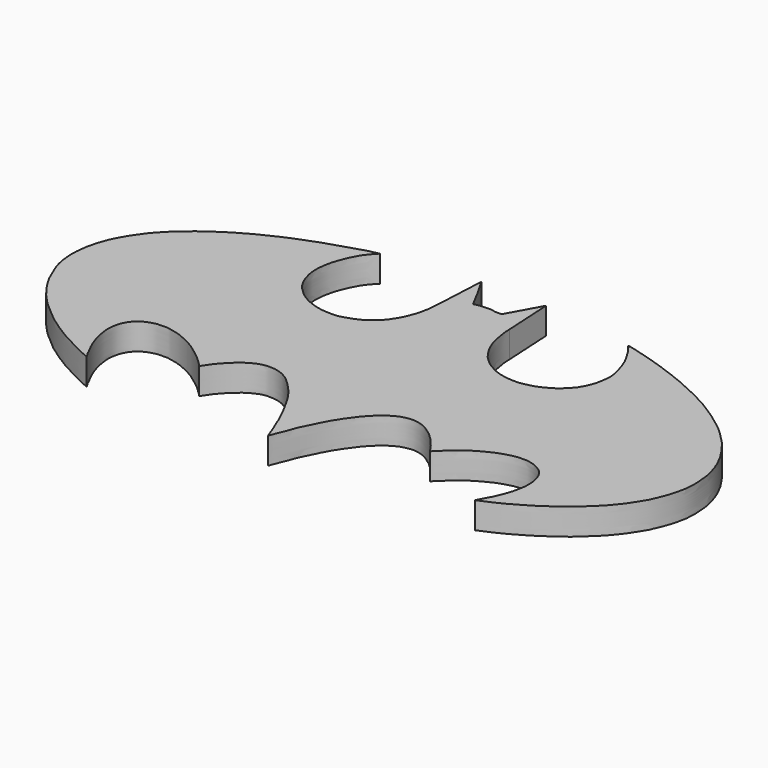
from build123d import *

# Parameters (mm, degrees)
F1_DEPTH = 3


with BuildPart() as f1:
    # F0 (on Top) → F1 (new body)
    with BuildSketch(Plane.XY):
        with BuildLine():
            add(Edge.make_bspline(
                [(43.8883714378, 42.9493300617), (43.9906443159, 41.052673012), (44.092917194, 39.2764210701), (44.1951900721, 37.3797640204)],
                knots=[0, 0, 0, 0, 5.5780107173, 5.5780107173, 5.5780107173, 5.5780107173], degree=3))
            add(Edge.make_bspline(
                [(43.8883714378, 42.9493300617), (43.2002531985, 41.6907196244), (42.5121349593, 40.4587189356), (41.8240167201, 39.2001084983)],
                knots=[0, 0, 0, 0, 4.279979291, 4.279979291, 4.279979291, 4.279979291], degree=3))
            add(Edge.make_bspline(
                [(41.8240167201, 39.2001084983), (41.6219808549, 39.2414644218), (41.219757792, 39.1578973627), (40.4844251857, 39.3893782118), (39.8510408898, 39.3052640724), (39.1768856468, 39.2844379185), (38.9693013163, 39.2219637265), (38.8234741986, 39.2001084983)],
                knots=[0, 0, 0, 0, 0.2012680894, 0.4240712291, 0.6347687259, 0.8418919037, 1, 1, 1, 1], degree=3))
            add(Edge.make_bspline(
                [(38.8234741986, 39.2001084983), (38.783925275, 39.1813404858), (38.6983280381, 39.1515083611), (38.6587791145, 39.1327403486)],
                knots=[0, 0, 0, 0, 0.1779408282, 0.1779408282, 0.1779408282, 0.1779408282], degree=3))
            add(Edge.make_bspline(
                [(38.6587791145, 39.1327403486), (38.415542459, 39.5782879598), (37.9405391346, 40.4531459422), (37.3246581467, 41.7004731022), (36.8132761193, 42.5297306145), (36.5531370044, 42.9493300617)],
                knots=[0, 0, 0, 0, 0.3391767031, 0.6651912969, 1, 1, 1, 1], degree=3))
            add(Edge.make_bspline(
                [(36.5531370044, 42.9493300617), (36.5157394565, 42.0778851244), (36.4470149087, 40.4901186982), (36.3708928021, 38.7843929099), (36.2610260545, 37.3042128357), (36.2113684368, 36.3007111251), (36.1089030823, 35.6595724537), (35.9485364587, 34.7755253855), (35.5945704774, 33.898010927), (35.2430554052, 33.0505842757), (34.5588439117, 32.0589050047), (34.072720634, 31.5158906421), (33.0378438928, 30.7009151644), (32.0462421992, 30.2880764915), (30.7183373095, 29.8255712944), (29.5836673413, 29.8763445009), (28.531007634, 29.9418671609), (27.301408312, 30.3581459323), (26.6406297624, 30.6932961878), (25.8818399696, 31.1440376354), (25.4828386989, 31.5865174108), (24.9239524408, 32.0527033248), (24.5694031735, 32.5499753143), (24.258929161, 33.080263478), (23.9915784607, 33.6966360837), (23.8445300937, 34.2374369823), (23.7391017395, 34.6245917825), (23.6610765544, 35.1675519002), (23.6386673721, 35.6958944295), (23.6884056175, 36.3947872104), (23.7534935755, 36.8104455967), (23.836980733, 37.2626374751), (23.9625423535, 37.7566177379), (24.1062955065, 38.1807427981), (24.2855910199, 38.6020102101), (24.3925238182, 38.8788221147), (24.5219560511, 39.2304834987), (24.7777425583, 39.70478309), (25.0450145338, 40.2268029072), (25.4007139851, 40.6654086481), (25.692015637, 41.0659399162), (26.0351678426, 41.3699381998), (26.1756945401, 41.5440350771)],
                knots=[0, 0, 0, 0, 0.044985488, 0.0823549683, 0.1169752163, 0.1451505316, 0.1679256718, 0.1946951106, 0.222368083, 0.2500417341, 0.2807776651, 0.3055952463, 0.3375280514, 0.3677002743, 0.4010990328, 0.4312693894, 0.4607505031, 0.492810785, 0.5178334136, 0.5439938276, 0.5662206622, 0.5902419582, 0.6125107279, 0.6348054313, 0.6582904094, 0.6794629417, 0.6975065514, 0.7182454291, 0.7394214719, 0.7630984865, 0.7816942282, 0.8008260394, 0.8211714088, 0.8404848909, 0.8595825585, 0.8750357073, 0.8922149765, 0.9131923041, 0.9352087531, 0.9564141719, 0.9765382157, 1, 1, 1, 1], degree=3))
            add(Edge.make_bspline(
                [(26.1756945401, 41.5440350771), (25.8983027257, 41.4967951765), (25.2705020549, 41.3898805537), (23.9132653808, 40.9697538433), (22.6289114443, 40.5333009084), (21.5536767733, 40.24667695), (20.1734447029, 39.7227553757), (19.1373203159, 39.3217213441), (18.1331836778, 38.9537370832), (17.0272491879, 38.4447668274), (16.152990786, 38.0221129389), (15.2211851615, 37.568499969), (14.489848651, 37.1668208681), (13.6912656235, 36.712731622), (13.1479036859, 36.380590346), (12.4412089967, 35.9322132071), (11.7766390941, 35.4918253566), (11.2131078603, 35.0323656037), (10.8592762206, 34.811881399), (10.4249933276, 34.4365100483), (10.0353140607, 34.1216056027), (9.7212207171, 33.8589361638), (9.3292895274, 33.5211387202), (8.94611163, 33.1505297382), (8.5273221388, 32.7035441718), (8.1472187415, 32.312478089), (7.73354936, 31.8457982155), (7.3295550983, 31.2762611314), (6.9941413127, 30.7980043249), (6.6417089593, 30.2876612712), (6.3725101589, 29.8128911578), (6.1503391825, 29.415463556), (5.8850990876, 28.8919870322), (5.6821353637, 28.4257827948), (5.4916053734, 27.8726047614), (5.2612102231, 27.1404644135), (5.1040072915, 26.4587624802), (5.0339124626, 25.917446908), (4.9398926318, 25.1677257438), (4.9135186169, 24.4549339393), (4.9547956182, 23.7327661183), (5.0410267018, 22.9749035745), (5.1748528726, 22.3595392432), (5.3455865823, 21.786468664), (5.5440846332, 21.278460214), (5.819555678, 20.5966184893), (6.0333842403, 20.0955082696), (6.2311927347, 19.6280675447), (6.6188777628, 19.0315208304), (6.9961044151, 18.3401077244), (7.5012724697, 17.6730421385), (7.8852921951, 17.1208750827), (8.4784340608, 16.4956556727), (9.0299168114, 15.8606570409), (9.7987770079, 15.1816970956), (10.5167214683, 14.5416887522), (11.1450630913, 14.0044417629), (11.7816292194, 13.5420489578), (12.2972058595, 13.1567972883), (12.9395999765, 12.756871827), (13.3666755975, 12.4506263426), (13.9669631902, 12.0948180042), (14.5525176336, 11.7544036877), (15.2498209713, 11.376426326), (15.9150871796, 11.0591285568), (16.6351031452, 10.6625717111), (17.2834501167, 10.3443356708), (17.9154394992, 10.070536811), (18.2619038969, 9.9204368889)],
                knots=[0, 0, 0, 0, 0.0166778627, 0.0377136298, 0.0582384868, 0.0769014532, 0.0981695933, 0.1168012535, 0.1349566293, 0.1542983639, 0.1718118872, 0.1895336236, 0.2058255429, 0.2224771779, 0.2366212549, 0.2525621955, 0.2685816154, 0.2833706048, 0.2947609989, 0.3079855713, 0.3204895542, 0.331711462, 0.3442541351, 0.3572207986, 0.3709365698, 0.3839385277, 0.3978321112, 0.4125280103, 0.4260513604, 0.4398933281, 0.4528234359, 0.4647301871, 0.4781195761, 0.4906713973, 0.5040721476, 0.5196035839, 0.5342667641, 0.547267672, 0.5624589727, 0.5774038085, 0.5923818804, 0.607739926, 0.6217553514, 0.635175473, 0.6482777521, 0.6633445064, 0.6763466944, 0.6887362774, 0.7034823498, 0.7192887765, 0.7352777878, 0.749763984, 0.7659094727, 0.7821671261, 0.7999756785, 0.8173043602, 0.8333359031, 0.8487949833, 0.8630664086, 0.8781872241, 0.8910658113, 0.9055604988, 0.9201971667, 0.9357718155, 0.9510161712, 0.9667833851, 0.9817742363, 1, 1, 1, 1], degree=3))
            add(Edge.make_bspline(
                [(27.1582603455, 14.7378128022), (27.1463998856, 14.7558995485), (27.1206337399, 14.7951919325), (27.0566485492, 14.8574062624), (26.9300684368, 15.0087334318), (26.8197966788, 15.1117618593), (26.6428996868, 15.2787254333), (26.5170446157, 15.4121430826), (26.3781154301, 15.5394892422), (26.2283552818, 15.6911321572), (26.0825875511, 15.7940683982), (25.9229567172, 15.9585484278), (25.7838234525, 16.0604509538), (25.638363507, 16.200713401), (25.4798759227, 16.3178343005), (25.2842385884, 16.4615222926), (25.0978541118, 16.6232828875), (24.9456359537, 16.7314402994), (24.7822331031, 16.8536842433), (24.5992454578, 16.9815556434), (24.4102004571, 17.0970913321), (24.2224373066, 17.2463592866), (24.020233973, 17.3593061221), (23.8511287779, 17.4420984459), (23.7264065227, 17.5538523803), (23.521118086, 17.6334159459), (23.3893202243, 17.7334441269), (23.2342631402, 17.8000348709), (23.0216300442, 17.9158735968), (22.7226644473, 18.0406360618), (22.4452685708, 18.180143058), (22.2229004603, 18.2515744074), (22.0469981519, 18.3344849698), (21.7949579201, 18.4008262493), (21.5980249424, 18.4782407465), (21.3097799673, 18.5454087603), (21.0879685878, 18.5910621869), (20.831702311, 18.6507597854), (20.7012546244, 18.6796699608), (20.4358694465, 18.7197649152), (20.2207222411, 18.7524755458), (19.2491240741, 18.7407293083), (18.9788407156, 18.6531953088), (18.7404466518, 18.6159010531), (18.4554550056, 18.5075634222), (18.2899905663, 18.456407575), (18.0934965758, 18.3692504318), (17.9460066313, 18.2700553033), (17.8250397128, 18.2225868631), (17.6364002144, 18.0751198243), (17.5286771002, 18.016677704), (17.4026188342, 17.8682760709), (17.2928086296, 17.8017362613), (17.205720672, 17.6749281868), (17.1315833235, 17.6158424015), (17.0293676229, 17.4348741977), (16.9134602589, 17.3295283043), (16.8486791952, 17.1424907699), (16.7522597993, 17.0393565531), (16.6947967874, 16.8471842775), (16.5984902389, 16.6524867314), (16.559958644, 16.5039497896), (16.5304718477, 16.3343023672), (16.4807215647, 16.1837124115), (16.4428663394, 16.0074188894), (16.4247335854, 15.693083725), (16.358026751, 15.3842277328), (16.4095950157, 14.7923757019), (16.4803636743, 14.3206795839), (16.5180588664, 14.0560937854), (16.6057534882, 13.7463278545), (16.704399283, 13.2911809563), (16.8156117513, 12.9909747514), (16.9235381767, 12.6453502541), (17.0202626246, 12.3856469937), (17.1541000819, 12.0580079109), (17.2895295289, 11.7590403119), (17.435332148, 11.4594816407), (17.609124065, 11.1303622085), (17.7851787839, 10.8259934824), (17.8828840784, 10.5203537363), (18.0524626591, 10.3295280423), (18.1369537988, 10.1313185044), (18.2192567939, 9.9924135429), (18.2619038969, 9.9204368889)],
                knots=[0, 0, 0, 0, 0.0064735868, 0.0140633742, 0.0251733303, 0.0353288292, 0.0476884144, 0.0586494476, 0.0696160594, 0.0812319407, 0.0920506718, 0.1040481739, 0.1146718275, 0.1259087446, 0.1371913735, 0.1497265461, 0.1623241894, 0.1732535852, 0.1846335593, 0.1966116957, 0.2085536787, 0.2209830026, 0.2332158228, 0.2440920188, 0.2544255442, 0.266218455, 0.2765004363, 0.2867267434, 0.2991545957, 0.3137242793, 0.3279392559, 0.3400337555, 0.3512134259, 0.3639767538, 0.3758356318, 0.3894270972, 0.4018499244, 0.4145388225, 0.424074435, 0.4365099183, 0.4491564383, 0.4738615184, 0.4877580144, 0.4998898602, 0.513784871, 0.5244953598, 0.5361472217, 0.5467062813, 0.5559714525, 0.5681353445, 0.5773057349, 0.588176071, 0.5974630942, 0.6070582466, 0.6149843815, 0.6262694185, 0.636519421, 0.6474797234, 0.6569365068, 0.6681916633, 0.6800384271, 0.6899841676, 0.7004012787, 0.7104016457, 0.7211339345, 0.7351072724, 0.7495048969, 0.7690792052, 0.7867102142, 0.7995375562, 0.8138682262, 0.8311376659, 0.8457286318, 0.8607225643, 0.8741866786, 0.8891504658, 0.9037271244, 0.9183272802, 0.9338013245, 0.948914997, 0.963172921, 0.9757777875, 0.9874486297, 1, 1, 1, 1], degree=3))
            add(Edge.make_bspline(
                [(40.2357168496, 8.1444578245), (40.2083548695, 8.1940493834), (40.1488360036, 8.3019229121), (40.1002275748, 8.5502823509), (39.9965417094, 8.7627149594), (39.8615004058, 9.1573645475), (39.6903397127, 9.5628373036), (39.5485671255, 9.9443381133), (39.3806122672, 10.2520577417), (39.2173982615, 10.6763880588), (39.1188629582, 10.9880029112), (38.9509595026, 11.3289681184), (38.8056378977, 11.6216051944), (38.6745880756, 11.9482607654), (38.5255288898, 12.2446400497), (38.3515074054, 12.5282339439), (38.2110675209, 12.8931816042), (38.0447322779, 13.1435890953), (37.9402270731, 13.447197165), (37.6835973152, 13.7609661172), (37.5914784989, 14.0965195255), (37.2998026096, 14.5058681502), (37.1453485783, 14.7971143648), (36.884759041, 15.1381205549), (36.6351454197, 15.5011609123), (36.4026587461, 15.8673741709), (36.0694558299, 16.205142597), (35.857106443, 16.4603105145), (35.4959902821, 16.85266474), (35.2208504969, 17.1111687845), (34.9902589002, 17.3275615755), (34.7335443171, 17.5587632355), (34.4678045668, 17.7763371433), (34.1432441537, 17.9758046291), (33.9131368861, 18.1147865128), (33.6460202068, 18.243762009), (33.3326156743, 18.3544395076), (33.0583169671, 18.4364451249), (32.7481787829, 18.4927763435), (32.5531689248, 18.5033231429), (32.304685852, 18.5281953873), (32.0501952078, 18.5250819673), (31.8064187582, 18.5380107689), (31.6047472122, 18.4970570616), (31.14700923, 18.4182728281), (30.728656216, 18.2328837605), (30.3513828329, 18.0586013464), (30.0283697038, 17.8548343646), (29.8280116832, 17.721023858), (29.5125636156, 17.4907076156), (29.2560562764, 17.2677226188), (28.9548968345, 16.9961074386), (28.723973955, 16.773599201), (28.4693259884, 16.5006096381), (28.1468910677, 16.1424592514), (27.938199849, 15.8955156706), (27.7692579394, 15.6622386327), (27.5925463361, 15.3943873349), (27.4593514555, 15.2039430838), (27.2555986531, 14.9312451457), (27.1990331155, 14.791112268), (27.1582603455, 14.7378128022)],
                knots=[0, 0, 0, 0, 0.0122326394, 0.0265851282, 0.0407627974, 0.0593940019, 0.0789652985, 0.0973096146, 0.1146259624, 0.1340289528, 0.1508421002, 0.1685251456, 0.1852472158, 0.2023987326, 0.2190726417, 0.2358938, 0.2539744601, 0.269833648, 0.286177163, 0.3043487228, 0.3216340097, 0.3419228681, 0.3588126415, 0.3776036726, 0.3969545862, 0.4162312809, 0.4359270628, 0.4529315731, 0.4739931437, 0.4920136157, 0.5081870244, 0.5251404739, 0.5423400676, 0.5601706766, 0.5752386141, 0.5909618862, 0.6076643998, 0.6234370483, 0.6395349617, 0.6524346905, 0.6667721128, 0.6816266346, 0.6956776582, 0.7088136115, 0.7283970864, 0.7483355807, 0.7671867949, 0.7848428207, 0.7992154513, 0.8170679903, 0.8343541462, 0.8526871517, 0.8690963437, 0.8868866219, 0.9071095886, 0.9236392856, 0.9392007071, 0.9554505204, 0.9697353034, 0.9865127541, 1, 1, 1, 1], degree=3))
            add(Edge.make_bspline(
                [(53.304400295, 14.7474594414), (53.2408283068, 14.8421541452), (53.1057798463, 15.0433179873), (52.8473220841, 15.4165341408), (52.6206118523, 15.7115526191), (52.3360163509, 16.0617763377), (52.0177128767, 16.4347719006), (51.6922189635, 16.7859295644), (51.3120742772, 17.1440378416), (51.0401368231, 17.3820820643), (50.515935623, 17.7565544517), (50.0931448223, 18.0332166434), (49.6910968469, 18.2516967684), (49.251072695, 18.3846943388), (48.8806678437, 18.4790771097), (48.386851341, 18.5341917938), (47.9530869171, 18.4901881149), (47.5458700066, 18.4101286887), (47.1747200454, 18.3241113424), (46.7638973649, 18.1456964186), (46.2889481253, 17.880738692), (45.8736918523, 17.6109671936), (45.3901214153, 17.2144922722), (44.8616773707, 16.7023526544), (44.439432115, 16.2416209415), (43.9679856447, 15.6320458985), (43.339374618, 14.746971865), (42.9511069151, 14.1570851624), (42.5759290529, 13.468039326), (42.2507586298, 12.8908886564), (42.0361354799, 12.3484662622), (41.6353472179, 11.581067971), (41.2705857471, 10.9102720705), (41.0534763761, 10.1317172277), (40.6825666267, 9.3104241461), (40.4103558042, 8.6522251222), (40.290855971, 8.3047762525), (40.2357168496, 8.1444578245)],
                knots=[0, 0, 0, 0, 0.0226414309, 0.0480829614, 0.0713534672, 0.096693004, 0.1232744662, 0.1498399496, 0.176830227, 0.199942704, 0.230119462, 0.2574800328, 0.2829909433, 0.3084557131, 0.3320463828, 0.358575991, 0.3837938247, 0.408065635, 0.4313297917, 0.4566828225, 0.4845978988, 0.5112751356, 0.5412609406, 0.5738245581, 0.6036065714, 0.6370723671, 0.6765454941, 0.7088561637, 0.7421851308, 0.7728814527, 0.8018481588, 0.836970166, 0.870282419, 0.90428517, 0.94047742, 0.9725267212, 1, 1, 1, 1], degree=3))
            add(Edge.make_bspline(
                [(62.235083431, 9.917203337), (62.2549040901, 9.9464964415), (62.3006308719, 10.0140764041), (62.3859093439, 10.1899122188), (62.5015289351, 10.4064164888), (62.6332019188, 10.6202946439), (62.7747847322, 10.9476073084), (63.104700639, 11.4817432306), (63.3870256466, 12.1911690469), (63.5969192894, 12.7040291597), (63.8100809127, 13.3407396081), (63.918385677, 13.9670859562), (64.0614616459, 14.5665068756), (64.091377749, 15.2162919861), (64.0726772039, 15.9038611911), (63.9411593169, 16.3950462626), (63.7918114344, 16.9570652639), (63.4153669091, 17.6265676587), (62.9130216005, 18.0668513227), (62.364576626, 18.3584867697), (61.961248645, 18.5668170865), (61.118438524, 18.764189766), (60.5025660767, 18.7298939164), (59.8545860974, 18.7311176365), (58.9034722241, 18.4581651465), (58.1917805523, 18.2516012266), (57.3561606066, 17.8535706448), (56.4779357661, 17.4001073386), (55.6177977793, 16.8342905395), (54.9415925549, 16.2934375743), (54.3490313288, 15.7575770104), (53.5405078504, 15.0441117465), (53.3916971259, 14.8336251834), (53.304400295, 14.7474594414)],
                knots=[0, 0, 0, 0, 0.0138586052, 0.0320391611, 0.0525739254, 0.0730381133, 0.0972993109, 0.1302103689, 0.1663763996, 0.1973031741, 0.2308122242, 0.2638522114, 0.2960613979, 0.3295218384, 0.3635978776, 0.3928298249, 0.4241285062, 0.4600866652, 0.494016372, 0.5258600889, 0.5539901811, 0.5918636816, 0.6244348468, 0.6574707653, 0.6982178501, 0.7341619431, 0.7733806274, 0.8147900617, 0.8567124194, 0.8946629963, 0.9325180507, 0.9747591502, 1, 1, 1, 1], degree=3))
            add(Edge.make_bspline(
                [(44.1951900721, 37.3797640204), (44.2002442129, 37.2671926361), (44.2065816745, 36.9588854292), (44.2348306469, 36.5510278093), (44.2833249457, 36.3242106015), (44.3111014048, 36.033297716), (44.3660446283, 35.789710374), (44.4006219337, 35.5413840386), (44.4402005466, 35.338942937), (44.4828633008, 35.1205056373), (44.5736645651, 34.8222008793), (44.6307699533, 34.5585135244), (44.7395923754, 34.2682035893), (44.891775892, 33.8834226454), (45.0161160788, 33.561753407), (45.1466965426, 33.3130066746), (45.344142447, 32.9765706592), (45.4920456532, 32.731960671), (45.7019365583, 32.4072281321), (45.8743405724, 32.1976450383), (46.0550577759, 31.9586210267), (46.2781838031, 31.7600829944), (46.5961129255, 31.4434015903), (46.9729340563, 31.1562478818), (47.3121286557, 30.8852962676), (47.6718672388, 30.6920136596), (48.0400890713, 30.4883905357), (48.4530624893, 30.3121698645), (48.8275136851, 30.1890949154), (49.1119363757, 30.1039558322), (49.447944051, 30.0555384553), (49.7085893913, 29.9577121736), (50.0645972742, 29.96262864), (50.2398929251, 29.9160976468), (51.2672336871, 29.9138527632), (51.4281591131, 29.9542383086), (51.6960074093, 30.0243481506), (52.0445769712, 30.0753617674), (52.3275514193, 30.1645474618), (52.6139454337, 30.1981520642), (52.89861593, 30.3316592126), (53.2064635296, 30.4331437754), (53.505223255, 30.5946428586), (53.6780271622, 30.6718808995), (53.8488829539, 30.76079338), (54.0313531242, 30.8616768856), (54.18999389, 30.9646602363), (54.4020821, 31.090673839), (54.5785555432, 31.225405745), (54.805934992, 31.3976816101), (54.9985423976, 31.6105762377), (55.2926123199, 31.8428840583), (55.5659519802, 32.1971524214), (55.8203736172, 32.4265726167), (55.8973832253, 32.6339278562), (56.1182030754, 32.9404349387), (56.2101612488, 33.1633593417), (56.3300569975, 33.4007520083), (56.3981510286, 33.5938363519), (56.4995739167, 33.8444396771), (56.6175750077, 34.184098704), (56.6633834079, 34.5076059022), (56.752793595, 34.8065723018), (56.7723881419, 35.248685684), (56.8440597804, 35.7569553555), (56.8120844563, 36.2654192282), (56.7299880586, 36.6249405298), (56.6812133707, 36.9046005826), (56.582293556, 37.32037775), (56.4422951855, 37.6914939575), (56.3691905444, 38.027053955), (56.1722144674, 38.4772501511), (56.0249479606, 38.9191189097), (55.7837169486, 39.3193539028), (55.6310350886, 39.6632458891), (55.3778264417, 40.0237242601), (55.1844757345, 40.387699664), (54.9693641029, 40.7072427678), (54.7573360354, 40.9676511962), (54.6028371901, 41.1831303948), (54.4540032105, 41.4147417831), (54.2931561795, 41.5070841925), (54.5237093801, 41.4998742028), (54.798256206, 41.4167425648), (55.1505651292, 41.353169007), (55.581876267, 41.2074942583), (55.9077591567, 41.13035477), (56.3816646757, 40.9954025632), (56.9491291478, 40.8478932638), (57.4273515753, 40.6998811033), (57.9020313669, 40.5272803039), (58.2887308326, 40.4231735372), (58.6884911664, 40.274551269), (59.1406030184, 40.1417396909), (59.5898081073, 39.9622545243), (59.9258210053, 39.8366856184), (60.4127116538, 39.6480552773), (60.7964110724, 39.5365799576), (61.2260817026, 39.3501262281), (61.7290862441, 39.1582117491), (62.1836884939, 38.9868260165), (62.6979146343, 38.7413352252), (63.1796806227, 38.5480275515), (63.6104970108, 38.3437881233), (63.9477683534, 38.1935611839), (64.2549532428, 38.0248451027), (64.7851643617, 37.7893364741), (65.0449151069, 37.6678750819), (65.2116672716, 37.5849228987), (65.5585541587, 37.356590206), (65.9881522652, 37.1802953403), (66.530897415, 36.8678375891), (66.8745583993, 36.6453785899), (67.1250358121, 36.4728225379), (67.3810652097, 36.3284739433), (67.6447838251, 36.1628055517), (67.9238397863, 35.9827890277), (68.1746785962, 35.8291792853), (68.4338713231, 35.6194868851), (68.7425889934, 35.4455095232), (69.0193281134, 35.2032277334), (69.4016777728, 34.95024213), (69.6418248818, 34.7641962743), (69.89485649, 34.5514560748), (70.0943695546, 34.4118567334), (70.3699993561, 34.1971115114), (70.5858505239, 33.9836531622), (70.8078772387, 33.8088102319), (71.0230963656, 33.5836823551), (71.2511240279, 33.3905483649), (71.4518952557, 33.1661176145), (71.6233855022, 33.0171688382), (71.8298280485, 32.8071705057), (71.9973830691, 32.6177305716), (72.2317778756, 32.3842389585), (72.4153298301, 32.1859316156), (72.5620592742, 31.9919734843), (72.6781549268, 31.8574464759), (72.8249363837, 31.6773499196), (72.9667004313, 31.5057266523), (73.0921082019, 31.3278245661), (73.1943359745, 31.1969611552), (73.3131746682, 31.0252067155), (73.4377549069, 30.8494092064), (73.5392111064, 30.701318737), (73.7050990489, 30.4677420398), (73.8290919656, 30.2577881649), (73.9623574252, 30.0508182866), (74.0719148744, 29.8561034805), (74.2196581282, 29.5765050691), (74.3876095384, 29.2591830333), (74.494696251, 29.0046833814), (74.6465909664, 28.7151636466), (74.6991760477, 28.4909439477), (74.8241806403, 28.2753060031), (74.9467070123, 27.9224682758), (75.0059727526, 27.6652368051), (75.1113741184, 27.3248348686), (75.1978925898, 27.1198767096), (75.2661460234, 26.7387660864), (75.3642255401, 26.3441305017), (75.4154346029, 25.7963528288), (75.4756930021, 25.3166190836), (75.5176526382, 24.6019108694), (75.4783368288, 23.8632650644), (75.46328697, 23.4426735627), (75.4044886382, 23.1371752353), (75.3370350321, 22.8011566239), (75.2503263475, 22.4357833715), (75.1655862267, 22.1228711459), (75.0744206145, 21.7742800511), (74.9804005261, 21.43141038), (74.8352644398, 21.0913548216), (74.7326653542, 20.7608854221), (74.6243548017, 20.5318353576), (74.5287700853, 20.2799769483), (74.3928180041, 20.0797882725), (74.2987043994, 19.7330802084), (74.1231357371, 19.4528490658), (73.96340709, 19.150830939), (73.8224776269, 18.948788512), (73.603403212, 18.5529535551), (73.3904412384, 18.2851556762), (73.2385287524, 18.0098006778), (72.9335963507, 17.6057825895), (72.7496396377, 17.3990654056), (72.572371208, 17.145426032), (72.3903031382, 16.9440698754), (72.2133457361, 16.710046827), (72.0797040971, 16.5933729032), (71.9620933333, 16.4245777604), (71.788074313, 16.2489752387), (71.5939265361, 16.0583804953), (71.3597416386, 15.8073696179), (70.8240912492, 15.28410593), (70.5295608334, 14.9992363259), (70.2373461102, 14.7447660103), (69.9697707655, 14.5300284864), (69.6908692042, 14.2721408352), (69.4439894056, 14.0865829411), (69.212379338, 13.9138926459), (68.896409804, 13.6779161053), (68.6398213179, 13.4846045969), (68.3854835011, 13.3044552158), (68.1591789242, 13.145983484), (67.8331126514, 12.9019398249), (67.3980739039, 12.6241836538), (66.9768483611, 12.3433602588), (66.5949570463, 12.1633367644), (66.2048188894, 11.8564322545), (65.5836011241, 11.5592096603), (65.0873016613, 11.2357195225), (64.6348689421, 11.0157952214), (64.2136468657, 10.8022994259), (63.8215989375, 10.6118206745), (63.3919060189, 10.4126444238), (63.0930708506, 10.2779303383), (62.7432300918, 10.1481562821), (62.5061051283, 10.0301217959), (62.3265992936, 9.9553324988), (62.235083431, 9.917203337)],
                knots=[0, 0, 0, 0, 0.0050726657, 0.0101108267, 0.0138890425, 0.0180632479, 0.0220284043, 0.0259267093, 0.029459859, 0.0331535534, 0.0375194713, 0.0415895174, 0.0459395484, 0.0510124536, 0.0555967548, 0.0597691043, 0.0645998407, 0.0688844857, 0.0736950033, 0.0778284852, 0.0820326652, 0.0863164773, 0.0915520501, 0.0969932967, 0.1021437089, 0.1071225388, 0.1122093998, 0.1174867748, 0.122384941, 0.1266649267, 0.1311610838, 0.1353839324, 0.1398205048, 0.1435072663, 0.151300227, 0.1547168451, 0.158661541, 0.163372748, 0.1676476718, 0.1718101686, 0.1761685737, 0.1806947867, 0.1852337537, 0.1886381952, 0.1920424911, 0.1956044492, 0.1990357936, 0.2028883208, 0.2066141657, 0.2107535353, 0.2149456759, 0.2197368795, 0.2250402869, 0.2295305984, 0.2332044207, 0.2379516285, 0.2418911583, 0.2458569615, 0.2493956757, 0.2534461643, 0.258166761, 0.2626323396, 0.2669667025, 0.2721430421, 0.2778223587, 0.2834270099, 0.2881230285, 0.2922819084, 0.297390192, 0.3023289964, 0.3069072893, 0.3123611929, 0.3177761377, 0.323080128, 0.3278945295, 0.3330613991, 0.3381211128, 0.342989796, 0.3474962519, 0.3515719876, 0.3557936786, 0.3583299819, 0.3612948652, 0.3656670252, 0.3703984839, 0.3756444072, 0.3801934692, 0.385657038, 0.3916927154, 0.3972829803, 0.4028123081, 0.4077665018, 0.4128440707, 0.4182728559, 0.4236726573, 0.4284205948, 0.4340203409, 0.4390121919, 0.444343321, 0.4500886794, 0.4555794292, 0.4614713896, 0.467168148, 0.4725680166, 0.4772475301, 0.4819478283, 0.48793687, 0.4920922436, 0.4954003973, 0.500332241, 0.5058091831, 0.5120130764, 0.517047801, 0.5213087966, 0.5255280588, 0.5299166119, 0.5344226219, 0.5386739064, 0.5431768928, 0.5478114011, 0.5526078646, 0.557883564, 0.5622705593, 0.5666865392, 0.5705948961, 0.5751920241, 0.5795369362, 0.5836833226, 0.5880386271, 0.5923608525, 0.5966167743, 0.6003788687, 0.6045705917, 0.6085657116, 0.61304843, 0.6171774819, 0.6209863414, 0.6242950552, 0.6280408596, 0.6317891742, 0.6354121221, 0.6386049298, 0.6421824358, 0.6457991032, 0.6491412317, 0.6533028769, 0.657233793, 0.6610690543, 0.6647622989, 0.6691777704, 0.6738740479, 0.6780442055, 0.6824791372, 0.6862023004, 0.6901034939, 0.6948460806, 0.6989879631, 0.703565908, 0.7073107551, 0.7120746576, 0.7171629109, 0.7229062435, 0.728382316, 0.7350386001, 0.7418385316, 0.7468741783, 0.7511677793, 0.7557548476, 0.7605546503, 0.7650299304, 0.7697078743, 0.774391127, 0.7791774092, 0.7837684534, 0.7877237546, 0.7917211464, 0.795578457, 0.8002143317, 0.8047947633, 0.8092891175, 0.8132286476, 0.8184614709, 0.8230478579, 0.8274733972, 0.8330058638, 0.8372074556, 0.8414731884, 0.8456298634, 0.8498314897, 0.853119907, 0.8566183382, 0.8605214258, 0.8645262334, 0.8691768261, 0.8759460446, 0.8810826561, 0.8858506175, 0.8904729338, 0.8952939199, 0.8996234907, 0.903838754, 0.9087454792, 0.9132420825, 0.9175550971, 0.9216540032, 0.9266195662, 0.9323106203, 0.9378871808, 0.9429198099, 0.9484096351, 0.9549287776, 0.9609983711, 0.9665325938, 0.9718814214, 0.9771007484, 0.9824506634, 0.9869957572, 0.9917202031, 0.9957760591, 1, 1, 1, 1], degree=3))
        make_face()
    extrude(amount=F1_DEPTH)


solid = f1.part
